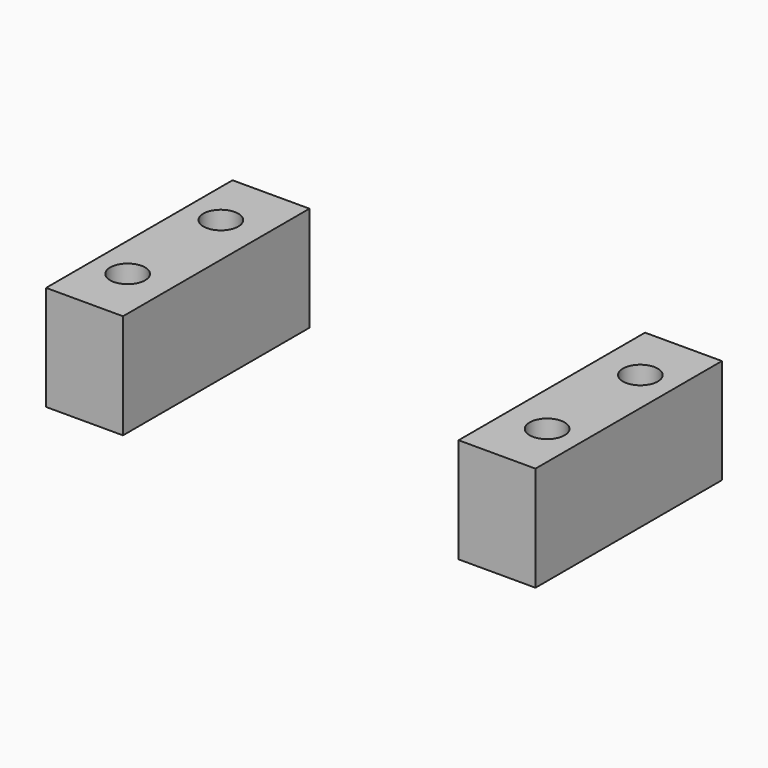
from build123d import *

# Parameters (mm, degrees)
CYLINDER1643_R     = 1.5
CYLINDER1643_DEPTH = 60
CYLINDER1644_R     = 1.5
CYLINDER1644_DEPTH = 60
CYLINDER1645_R     = 1.5
CYLINDER1645_DEPTH = 60
CYLINDER1642_R     = 1.5
CYLINDER1642_DEPTH = 60
BOX646_W           = 28.8
BOX646_H           = 34.21
BOX646_DEPTH       = 9
BOX647_W           = 42
BOX647_H           = 20
BOX647_DEPTH       = 9


with BuildPart() as obj1:
    # Cylinder1643 → Cylinder1643 (new body)
    with BuildSketch(Plane(origin=(18, 85, -57), x_dir=(1, 0, 0), z_dir=(0, 0, 1))):
        Circle(CYLINDER1643_R)
    extrude(amount=CYLINDER1643_DEPTH)


with BuildPart() as obj2:
    # Cylinder1644 → Cylinder1644 (new body)
    with BuildSketch(Plane(origin=(-18, 85, -57), x_dir=(1, 0, 0), z_dir=(0, 0, 1))):
        Circle(CYLINDER1644_R)
    extrude(amount=CYLINDER1644_DEPTH)


with BuildPart() as obj3:
    # Cylinder1645 → Cylinder1645 (new body)
    with BuildSketch(Plane(origin=(-18, 95, -57), x_dir=(1, 0, 0), z_dir=(0, 0, 1))):
        Circle(CYLINDER1645_R)
    extrude(amount=CYLINDER1645_DEPTH)


with BuildPart() as compound811:
    # Cylinder1642 → Cylinder1642 (new body)
    with BuildSketch(Plane(origin=(18, 95, -57), x_dir=(1, 0, 0), z_dir=(0, 0, 1))):
        Circle(CYLINDER1642_R)
    extrude(amount=CYLINDER1642_DEPTH)

    # Compound811: union obj1, obj2, obj3
    add(obj1.part)
    add(obj2.part)
    add(obj3.part)


with BuildPart() as compound803:
    # Box646 → Box646 (new body)
    with BuildSketch(Plane(origin=(-14.4, -15.34, 34), x_dir=(1, 0, 0), z_dir=(0, 0, 1))):
        with Locations((14.4, 17.105)):
            Rectangle(BOX646_W, BOX646_H)
    extrude(amount=BOX646_DEPTH)


with BuildPart() as compound803_1:
    # Compound803 placement: moved
    add(compound803.part.moved(Location((0, 90, -83))))


with BuildPart() as cut323:
    # Box647 → Box647 (new body)
    with BuildSketch(Plane(origin=(-21, 80, -49), x_dir=(1, 0, 0), z_dir=(0, 0, 1))):
        with Locations((21, 10)):
            Rectangle(BOX647_W, BOX647_H)
    extrude(amount=BOX647_DEPTH)

    # Cut311: cut Compound803
    add(compound803_1.part, mode=Mode.SUBTRACT)


with BuildPart() as cut323_1:
    # Cut311 placement: moved
    add(cut323.part.moved(Location((0, 0, 1))))

    # Cut323: cut Compound811
    add(compound811.part, mode=Mode.SUBTRACT)


solid = cut323_1.part
